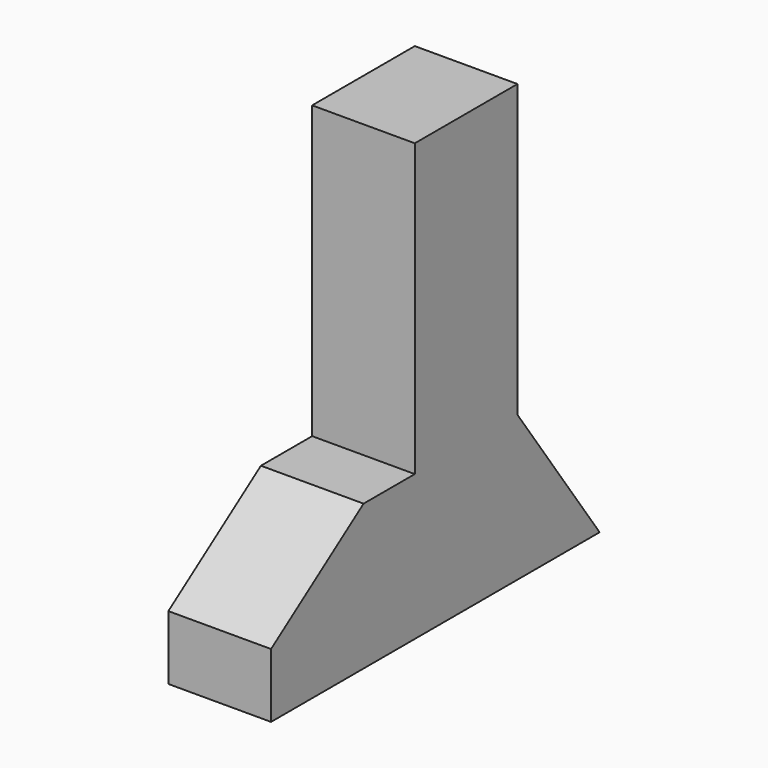
from build123d import *

# Parameters (mm, degrees)
F0_W     = 63.5
F0_H     = 144.085686
F1_DEPTH = 25.4


with BuildPart() as f1:
    # F0 (on Right) → F1 (new body, symmetric)
    with BuildSketch(Plane.YZ):
        Polygon((0, 31.75), (0, 0), (152.4, 0), (152.4, 71.814314), (88.9, 71.814314), (57.21777, 71.814314), align=None)
        Polygon((152.4, 71.814314), (152.4, 0), (203.2, 0), align=None)
        with Locations((120.65, 143.857157)):
            Rectangle(F0_W, F0_H)
    extrude(amount=F1_DEPTH, both=True)


solid = f1.part
